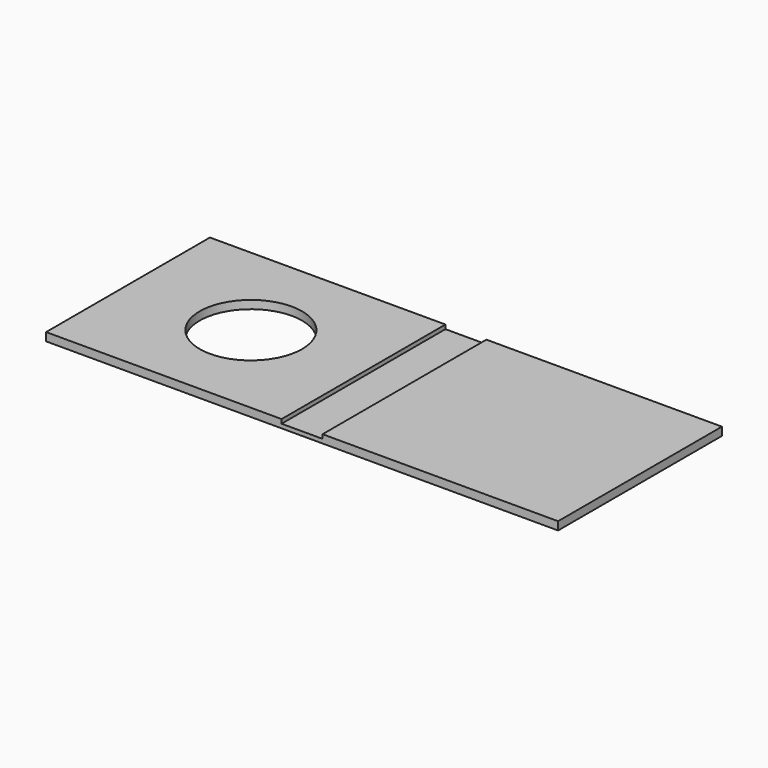
from build123d import *

# Parameters (mm, degrees)
F0_W     = 50
F0_H     = 20
F1_DEPTH = 0.4
F2_W     = 23
F2_H     = 20
F3_DEPTH = 0.4
F4_R     = 5
F5_DEPTH = 25


with BuildPart() as f1:
    # F0 (on Top) → F1 (new body)
    with BuildSketch(Plane.XY):
        Rectangle(F0_W, F0_H)
    extrude(amount=F1_DEPTH)

    # F2 (on face) → F3 (join)
    with BuildSketch(Plane.XY.offset(0.4)):
        with Locations((-13.5, 0)):
            Rectangle(F2_W, F2_H)
        with Locations((13.5, 0)):
            Rectangle(F2_W, F2_H)
    extrude(amount=F3_DEPTH)

    # F4 (on face) → F5 (cut)
    with BuildSketch(Plane.XY.offset(0.8)):
        with Locations((-13, 0)):
            Circle(F4_R)
    extrude(amount=-F5_DEPTH, mode=Mode.SUBTRACT)


solid = f1.part
